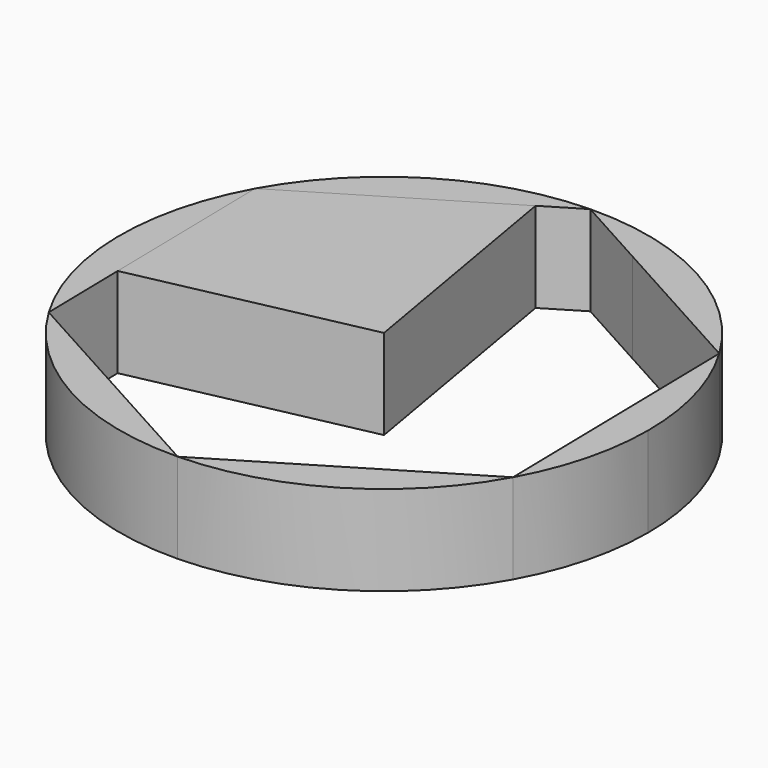
from build123d import *

# Parameters (mm, degrees)
F1_DEPTH = 25.4
F2_DEPTH = 25.4


with BuildPart() as f1:
    # F0 (on Top) → F1 (new body)
    with BuildSketch(Plane.XY):
        with BuildLine():
            ThreePointArc((65.268345, -36.057142), (72.204112, -18.618285), (74.565906, 0))
            ThreePointArc((74.565906, 0), (71.839738, 19.978148), (63.860574, 38.495474))
            Line((63.860574, 38.495474), (64.91854, -17.532217))
            Line((64.91854, -17.532217), (65.268345, -36.057142))
        make_face()
        with BuildLine():
            Line((19.923109, 62.768487), (63.860574, 38.495474))
            ThreePointArc((63.860574, 38.495474), (36.057142, 65.268345), (-1.407772, 74.552616))
            Line((-1.407772, 74.552616), (19.923109, 62.768487))
        make_face()
        with BuildLine():
            Line((-11.831469, 68.269159), (-1.407772, 74.552616))
            ThreePointArc((-1.407772, 74.552616), (-38.495474, 63.860574), (-65.268345, 36.057142))
            Line((-65.268345, 36.057142), (-52.753322, 43.60126))
            Line((-52.753322, 43.60126), (-33.338058, 55.304879))
            Line((-33.338058, 55.304879), (-11.831469, 68.269159))
        make_face()
        with BuildLine():
            ThreePointArc((-63.860574, -38.495474), (-36.057142, -65.268345), (1.407772, -74.552616))
            Line((1.407772, -74.552616), (-28.737855, -57.898829))
            Line((-28.737855, -57.898829), (-56.825633, -42.381889))
            Line((-56.825633, -42.381889), (-63.860574, -38.495474))
        make_face()
        with BuildLine():
            ThreePointArc((1.407772, -74.552616), (38.495474, -63.860574), (65.268345, -36.057142))
            Line((65.268345, -36.057142), (52.199426, -43.935152))
            Line((52.199426, -43.935152), (3.969514, -73.008385))
            Line((3.969514, -73.008385), (1.407772, -74.552616))
        make_face()
        with BuildLine():
            Line((-65.031041, 23.490025), (-65.268345, 36.057142))
            ThreePointArc((-65.268345, 36.057142), (-74.552616, -1.407772), (-63.860574, -38.495474))
            Line((-63.860574, -38.495474), (-64.330896, -13.588211))
            Line((-64.330896, -13.588211), (-65.031041, 23.490025))
        make_face()
    extrude(amount=F1_DEPTH)


with BuildPart() as f2:
    # F0 (on Top) → F2 (new body)
    with BuildSketch(Plane.XY):
        Polygon((-33.338058, 55.304879), (0, 0), (-11.831469, 68.269159), align=None)
        Polygon((-52.753322, 43.60126), (0, 0), (-33.338058, 55.304879), align=None)
        Polygon((-65.031041, 23.490025), (0, 0), (-52.753322, 43.60126), (-65.268345, 36.057142), align=None)
        Polygon((-64.330896, -13.588211), (0, 0), (-65.031041, 23.490025), align=None)
    extrude(amount=F2_DEPTH)


solid = Compound([f1.part, f2.part])
